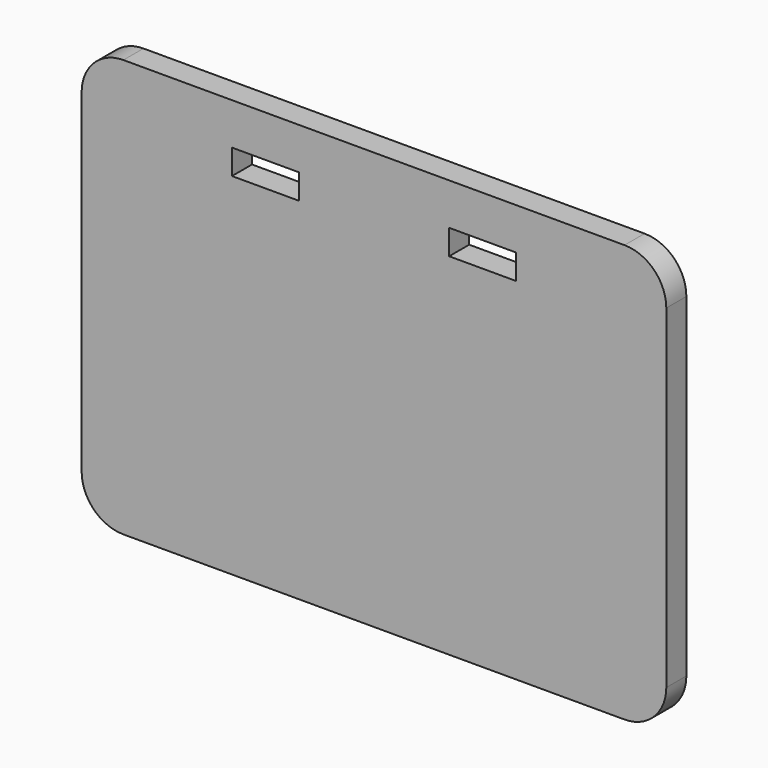
from build123d import *

# Parameters (mm, degrees)
F0_W     = 8
F0_H     = 3
F1_DEPTH = 3


with BuildPart() as f1:
    # F0 (on Front) → F1 (new body)
    with BuildSketch(Plane.XZ):
        with BuildLine():
            Line((30, 26.570625), (-30, 26.570625))
            ThreePointArc((-30, 26.570625), (-33.535534, 25.106159), (-35, 21.570625))
            Line((-35, 21.570625), (-35, -18.429375))
            ThreePointArc((-35, -18.429375), (-33.535534, -21.964909), (-30, -23.429375))
            Line((-30, -23.429375), (30, -23.429375))
            ThreePointArc((30, -23.429375), (33.535534, -21.964909), (35, -18.429375))
            Line((35, -18.429375), (35, 21.570625))
            ThreePointArc((35, 21.570625), (33.535534, 25.106159), (30, 26.570625))
        make_face()
        with Locations((-13, 20.070625)):
            Rectangle(F0_W, F0_H, mode=Mode.SUBTRACT)
        with Locations((13, 20.070625)):
            Rectangle(F0_W, F0_H, mode=Mode.SUBTRACT)
        with BuildLine():
            Line((30, 26.570625), (-30, 26.570625))
            ThreePointArc((-30, 26.570625), (-33.535534, 25.106159), (-35, 21.570625))
            Line((-35, 21.570625), (-35, -18.429375))
            ThreePointArc((-35, -18.429375), (-33.535534, -21.964909), (-30, -23.429375))
            Line((-30, -23.429375), (30, -23.429375))
            ThreePointArc((30, -23.429375), (33.535534, -21.964909), (35, -18.429375))
            Line((35, -18.429375), (35, 21.570625))
            ThreePointArc((35, 21.570625), (33.535534, 25.106159), (30, 26.570625))
        make_face()
        with Locations((-13, 20.070625)):
            Rectangle(F0_W, F0_H, mode=Mode.SUBTRACT)
        with Locations((13, 20.070625)):
            Rectangle(F0_W, F0_H, mode=Mode.SUBTRACT)
    extrude(amount=F1_DEPTH)


solid = f1.part
